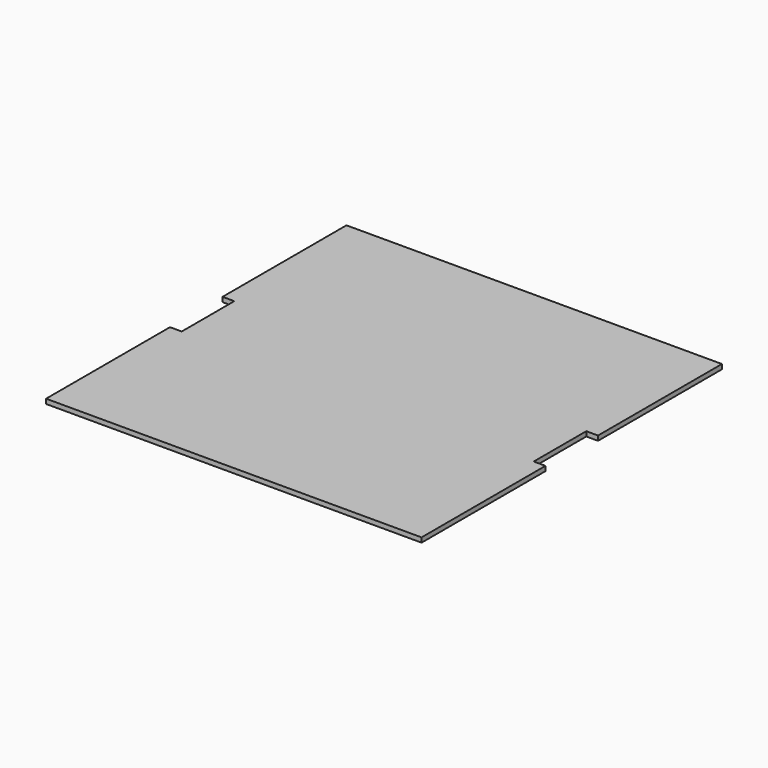
from build123d import *

# Parameters (mm, degrees)
F0_W     = 240
F0_H     = 240
F1_DEPTH = 3
F2_W     = 2.5
F2_H     = 42
F2_W_2   = 5
F3_DEPTH = 25


with BuildPart() as f1:
    # F0 (on Top) → F1 (new body)
    with BuildSketch(Plane.XY):
        Rectangle(F0_W, F0_H)
    extrude(amount=F1_DEPTH)

    # F2 (on face) → F3 (cut)
    with BuildSketch(Plane.XY.offset(3)):
        with Locations((-118.75, 0)):
            Rectangle(F2_W, F2_H)
        with Locations((118.75, 0)):
            Rectangle(F2_W, F2_H)
        with Locations((-115, 0)):
            Rectangle(F2_W_2, F2_H)
        with Locations((115, 0)):
            Rectangle(F2_W_2, F2_H)
        with Locations((-118.75, 0)):
            Rectangle(F2_W, F2_H)
        with Locations((121.25, 0)):
            Rectangle(F2_W, F2_H)
        with Locations((118.75, 0)):
            Rectangle(F2_W, F2_H)
    extrude(amount=-F3_DEPTH, mode=Mode.SUBTRACT)


solid = f1.part
